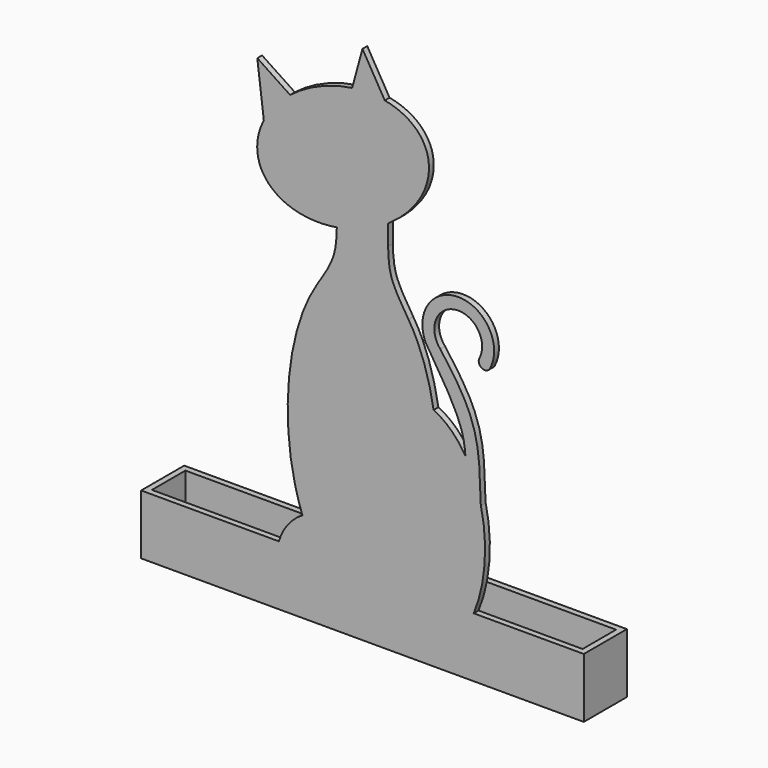
from build123d import *

# Parameters (mm, degrees)
F1_DEPTH = 1
F3_DEPTH = 9
F4_W     = 72
F4_H     = 7
F5_DEPTH = 15
F6_W     = 14
F6_H     = 5
F7_DEPTH = 3


with BuildPart() as f1:
    # F0 (on Front) → F1 (new body)
    with BuildSketch(Plane.XZ):
        with BuildLine():
            ThreePointArc((-10.0408443114, 15.1095405693), (-12.4884072009, 12.922316679), (-13.9832575854, 10))
            Line((-13.9832575854, 10), (-7.5, 10))
            Line((-7.5, 10), (18.5986325968, 10))
            add(Edge.make_bspline(
                [(18.5986325968, 10), (21.7874042537, 17.6571019048), (19.80032664, 26.2314829268)],
                knots=[4.1400176542, 4.1400176542, 4.1400176542, 5.0566635569, 5.0566635569, 5.0566635569], degree=2, weights=[1, 0.8967957597, 1]))
            add(Edge.make_bspline(
                [(12.9993207665, 47.0798322294), (15.450324346, 43.741998707), (20.1470988099, 37.5454970427), (19.5750997548, 26.5514442031), (19.804460929, 26.2712905063), (19.80032664, 26.2314829268)],
                knots=[0, 0, 0, 0, 0.5016072838, 0.9372111202, 1, 1, 1, 1], degree=3))
            ThreePointArc((12.9993207665, 47.0798322294), (15.5438900017, 53.6856045082), (19.5497050621, 47.8491239167))
            ThreePointArc((19.5497050621, 47.8491239167), (19.9685720284, 46.4983646989), (21.3193312462, 46.9172316652))
            ThreePointArc((21.3193312462, 46.9172316652), (16.1624355435, 55.7109825264), (10.5667996719, 47.1896864578))
            add(Edge.make_bspline(
                [(10.5667996719, 47.1896864578), (10.8605309783, 46.7321602294), (11.154313152, 46.2747029689), (11.4453972129, 45.8192883847)],
                knots=[0, 0, 0, 0, 0.0776469035, 0.0776469035, 0.0776469035, 0.0776469035], degree=3))
            add(Edge.make_bspline(
                [(11.4453972129, 45.8192883847), (12.767933728, 43.7501183476), (15.1878409182, 39.878150916), (16.9341324434, 35.7137130449), (17.1275061277, 33.6475465249), (17.2028191458, 32.7424766632)],
                knots=[0.0776469035, 0.0776469035, 0.0776469035, 0.0776469035, 0.430434565, 0.7515396694, 1, 1, 1, 1], degree=3))
            add(Edge.make_bspline(
                [(17.2028191458, 32.7424766632), (14.9801521234, 36.3481891595), (11.8867786303, 37.7342081157)],
                knots=[5.474108615, 5.474108615, 5.474108615, 6.0012992542, 6.0012992542, 6.0012992542], degree=2, weights=[1, 0.9654594475, 1]))
            add(Edge.make_bspline(
                [(11.8867786303, 37.7342081157), (10.7035302137, 45.0083914749), (7.68767306, 49.7129077432)],
                knots=[1.8853250248, 1.8853250248, 1.8853250248, 2.4791891292, 2.4791891292, 2.4791891292], degree=2, weights=[1, 0.9562386323, 1]))
            add(Edge.make_bspline(
                [(7.68767306, 49.7129077432), (6.5442123198, 51.4971863092), (4.4054650757, 54.7938829615), (4.3260539824, 57.9122155888), (4.2892550944, 59.3554241747)],
                knots=[0, 0, 0, 0, 0.5391239155, 1, 1, 1, 1], degree=3))
            Line((4.2892550944, 59.3554241747), (4.2892550944, 62.7361203619))
            add(Edge.make_bspline(
                [(4.2892550944, 62.7361203619), (25.1855731849, 76.6200768708), (3.7327027616, 80.6413343112)],
                knots=[1.8494400705, 1.8494400705, 1.8494400705, 3.9321155412, 3.9321155412, 3.9321155412], degree=2, weights=[1, 0.505066136, 1]))
            Line((3.7327027616, 80.6413343112), (0, 87.0222076774))
            Line((0, 87.0222076774), (-1.7229665969, 80.7154094089))
            add(Edge.make_bspline(
                [(-1.7229665969, 80.7154094089), (-7.5136196625, 79.9089208722), (-12.0973469547, 76.3038908078)],
                knots=[4.3332693398, 4.3332693398, 4.3332693398, 5.1037535185, 5.1037535185, 5.1037535185], degree=2, weights=[1, 0.9267074866, 1]))
            Line((-12.0973469547, 76.3038908078), (-17.5828682239, 79.9423769641))
            Line((-17.5828682239, 79.9423769641), (-16.4939268376, 71.1509964352))
            add(Edge.make_bspline(
                [(-16.4939268376, 71.1509964352), (-24.166699821, 56.1098731464), (-4.2892550944, 59.3554241747)],
                knots=[5.6147383929, 5.6147383929, 5.6147383929, 7.5075967098, 7.5075967098, 7.5075967098], degree=2, weights=[1, 0.5845839527, 1]))
            add(Edge.make_bspline(
                [(-7.68767306, 49.7129077432), (-6.5442123198, 51.4971863092), (-4.4054650757, 54.7938829615), (-4.3260539824, 57.9122155888), (-4.2892550944, 59.3554241747)],
                knots=[0, 0, 0, 0, 0.5391239155, 1, 1, 1, 1], degree=3))
            add(Edge.make_bspline(
                [(-7.68767306, 49.7129077432), (-17.3068218361, 34.7077401912), (-10.0408443114, 15.1095405693)],
                knots=[3.803996178, 3.803996178, 3.803996178, 5.3504242368, 5.3504242368, 5.3504242368], degree=2, weights=[1, 0.7156695663, 1]))
        make_face()
    extrude(amount=F1_DEPTH)

    # F2 (on face) → F3 (join)
    with BuildSketch(Plane.XZ.offset(1)):
        Polygon((-37, 10), (-37, 0), (37, 0), (37, 10), (18.5986325968, 10), (-13.9832575854, 10), align=None)
    extrude(amount=-F3_DEPTH)

    # F4 (on face) → F5 (cut)
    with BuildSketch(Plane(origin=(0, 0, 0), x_dir=(1, 0, 0), z_dir=(0, 0, -1))):
        with Locations((0, -3.5)):
            Rectangle(F4_W, F4_H)
    extrude(amount=-F5_DEPTH, mode=Mode.SUBTRACT)

    # F6 (on face) → F7 (cut)
    with BuildSketch(Plane(origin=(0, 8, 0), x_dir=(-1, 0, 0), z_dir=(0, 1, 0))):
        with Locations((0, 2.5)):
            Rectangle(F6_W, F6_H)
    extrude(amount=-F7_DEPTH, mode=Mode.SUBTRACT)


solid = f1.part
